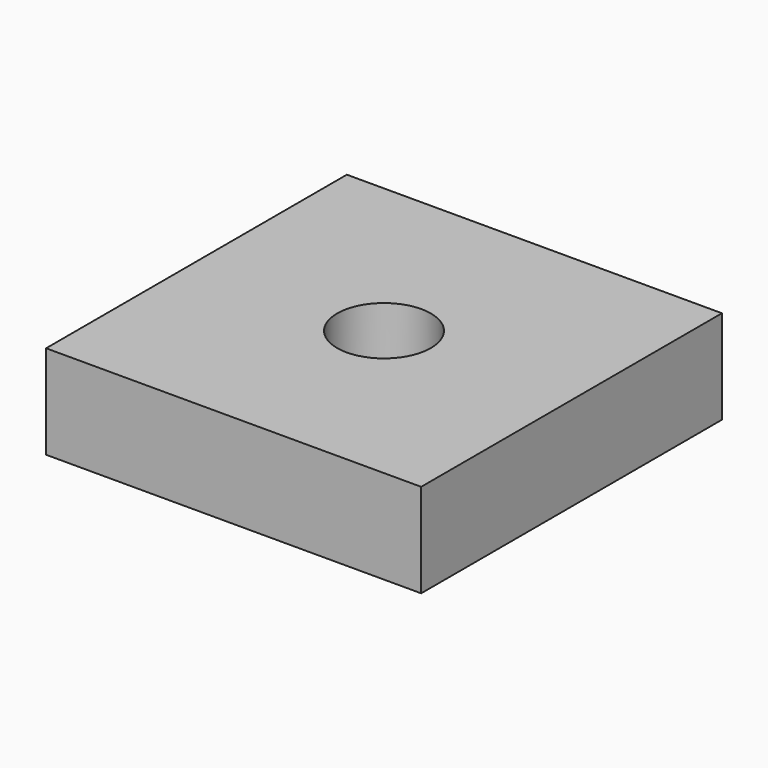
from build123d import *

# Parameters (mm, degrees)
SKETCH_W      = 40
SKETCH_H      = 40.09
SKETCH_R      = 5
EXTRUDE_DEPTH = 10


with BuildPart() as part:
    # Sketch → Extrude (new body)
    with BuildSketch(Plane.XY):
        Rectangle(SKETCH_W, SKETCH_H)
        Circle(SKETCH_R, mode=Mode.SUBTRACT)
    extrude(amount=EXTRUDE_DEPTH)


solid = part.part
